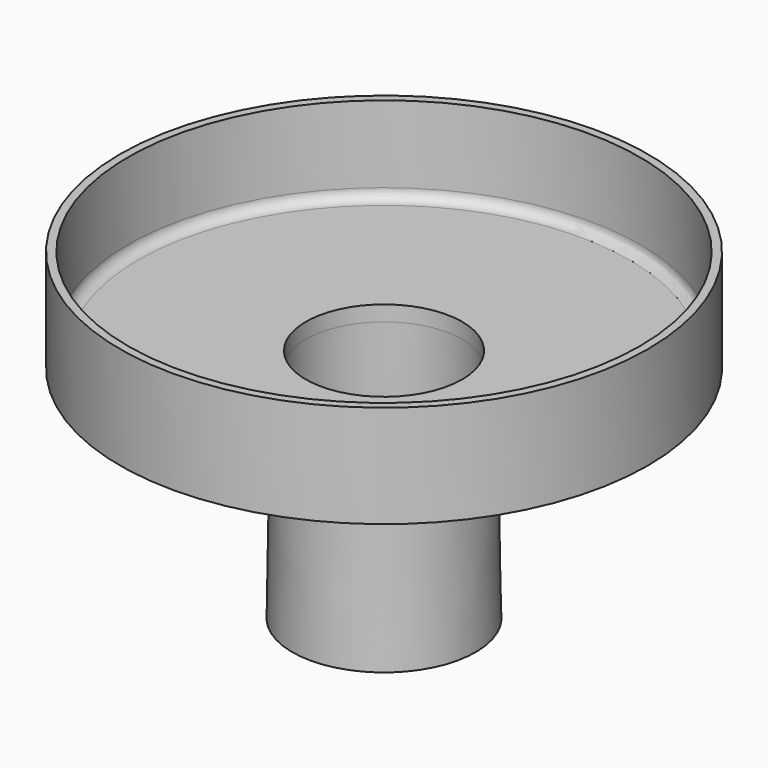
from build123d import *

# Parameters (mm, degrees)
F0_R     = 51.5
F1_DEPTH = 20
F2_R     = 49.925
F3_DEPTH = 17
F4_R     = 15.25
F5_DEPTH = 25
F8_R     = 10
F9_R     = 2


with BuildPart() as f1:
    # F0 (on Top) → F1 (new body)
    with BuildSketch(Plane.XY):
        Circle(F0_R)
    extrude(amount=F1_DEPTH)

    # F2 (on face) → F3 (cut)
    with BuildSketch(Plane.XY.offset(20)):
        Circle(F2_R)
    extrude(amount=-F3_DEPTH, mode=Mode.SUBTRACT)

    # F4 (on face) → F5 (cut)
    with BuildSketch(Plane(origin=(0, 0, 0), x_dir=(1, 0, 0), z_dir=(0, 0, -1))):
        Circle(F4_R)
    extrude(amount=-F5_DEPTH, mode=Mode.SUBTRACT)

    # F7: sweep along a path in F7_path
    with BuildLine(Plane(origin=(51.5, 0, 0), x_dir=(0, -1, 0), z_dir=(0, 0, -1))) as f7_path:
        CenterArc((0, 51.5), 51.5, 0, 360)
    # F6 (on Right) → F7 (sweep)
    with BuildSketch(Plane.YZ):
        Polygon((17.2497715373, 0.0302291046), (15.25, 0), (15.9, -43), (17.8997715373, -42.9697708954), align=None)
    sweep(path=f7_path.line)

    # F8
    f8_edges = [f1.edges().sort_by_distance(p)[0] for p in [
        (0, 17.250228, 0),
    ]]
    fillet(f8_edges, radius=F8_R)

    # F9
    f9_edges = [f1.edges().sort_by_distance(p)[0] for p in [
        (-49.925, 0, 3),
    ]]
    fillet(f9_edges, radius=F9_R)


solid = f1.part
